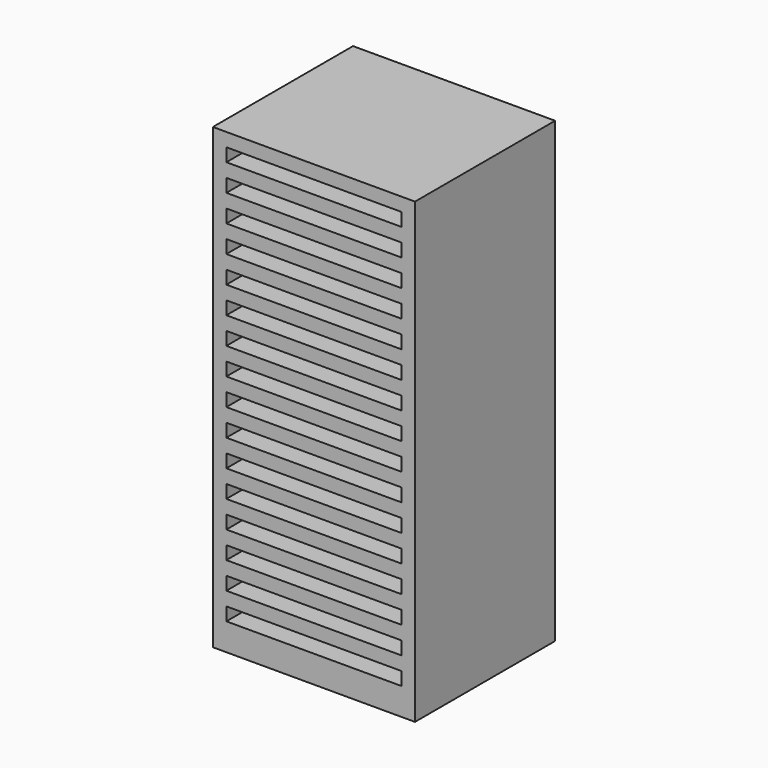
from build123d import *

# Parameters (mm, degrees)
F0_W     = 10
F0_H     = 170
F1_DEPTH = 37.5
F2_W     = 65
F2_H     = 4.9
F3_DEPTH = 10
F4_W     = 75
F4_H     = 170
F4_W_2   = 65
F4_H_2   = 154.9
F5_DEPTH = 50
F6_W     = 75
F6_H     = 170
F7_DEPTH = 5
F8_W     = 25
F8_H     = 50
F9_DEPTH = 5


with BuildPart() as f1:
    # F0 (on Right) → F1 (new body, symmetric)
    with BuildSketch(Plane.YZ):
        with Locations((-36.757313, -17.352806)):
            Rectangle(F0_W, F0_H)
    extrude(amount=F1_DEPTH, both=True)

    # F2 (on face) → F3 (cut, through all)
    with BuildSketch(Plane.XZ.offset(41.757313)):
        with Locations((0, 60.197194)):
            Rectangle(F2_W, F2_H)
        with Locations((0, 50.197194)):
            Rectangle(F2_W, F2_H)
        with Locations((0, 40.197194)):
            Rectangle(F2_W, F2_H)
        with Locations((0, 30.197194)):
            Rectangle(F2_W, F2_H)
        with Locations((0, 20.197194)):
            Rectangle(F2_W, F2_H)
        with Locations((0, 10.197194)):
            Rectangle(F2_W, F2_H)
        with Locations((0, 0.197194)):
            Rectangle(F2_W, F2_H)
        with Locations((0, -9.802806)):
            Rectangle(F2_W, F2_H)
        with Locations((0, -19.802806)):
            Rectangle(F2_W, F2_H)
        with Locations((0, -29.802806)):
            Rectangle(F2_W, F2_H)
        with Locations((0, -39.802806)):
            Rectangle(F2_W, F2_H)
        with Locations((0, -49.802806)):
            Rectangle(F2_W, F2_H)
        with Locations((0, -59.802806)):
            Rectangle(F2_W, F2_H)
        with Locations((0, -69.802806)):
            Rectangle(F2_W, F2_H)
        with Locations((0, -79.802806)):
            Rectangle(F2_W, F2_H)
        with Locations((0, -89.802806)):
            Rectangle(F2_W, F2_H)
    extrude(amount=-F3_DEPTH, mode=Mode.SUBTRACT)

    # F4 (on face) → F5 (join)
    with BuildSketch(Plane(origin=(0, -31.757313, 0), x_dir=(-1, 0, 0), z_dir=(0, 1, 0))):
        with Locations((0, -17.352806)):
            Rectangle(F4_W, F4_H)
        with Locations((0, -14.802806)):
            Rectangle(F4_W_2, F4_H_2, mode=Mode.SUBTRACT)
    extrude(amount=F5_DEPTH)

    # F6 (on face) → F7 (join)
    with BuildSketch(Plane(origin=(0, 18.242687, 0), x_dir=(-1, 0, 0), z_dir=(0, 1, 0))):
        with Locations((0, -17.352806)):
            Rectangle(F6_W, F6_H)
    extrude(amount=F7_DEPTH)

    # F8 (on face) → F9 (cut, through all)
    with BuildSketch(Plane(origin=(0, 23.242687, 0), x_dir=(-1, 0, 0), z_dir=(0, 1, 0))):
        with Locations((0, -17.352806)):
            Rectangle(F8_W, F8_H)
    extrude(amount=-F9_DEPTH, mode=Mode.SUBTRACT)


solid = f1.part
